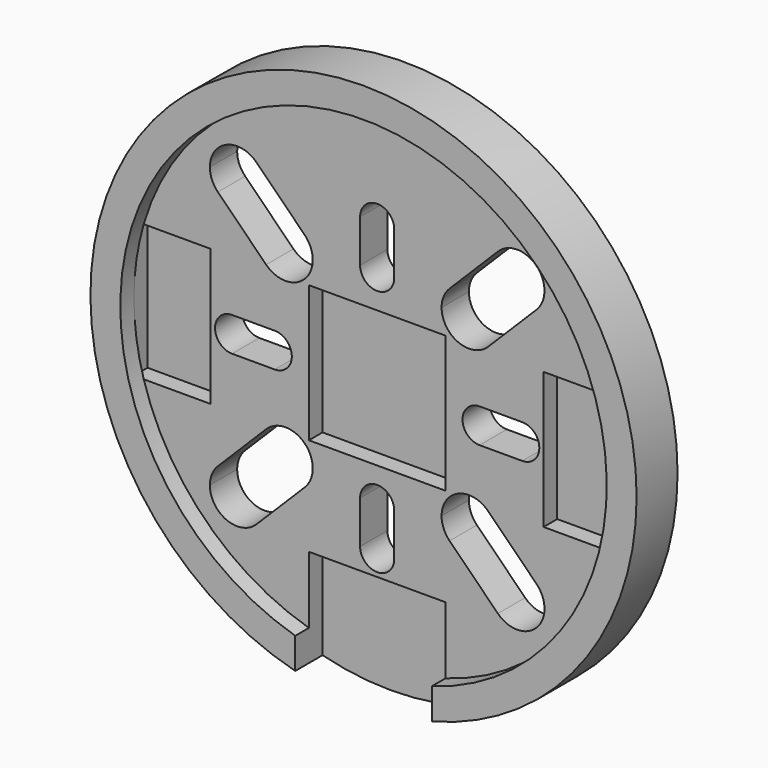
from build123d import *

# Parameters (mm, degrees)
F0_R     = 16
F1_DEPTH = 3
F3_DEPTH = 1
F4_W     = 8
F4_H     = 8
F4_W_2   = 4.5
F5_DEPTH = 1
F7_DEPTH = 3.001
F9_DEPTH = 3.001


with BuildPart() as f1:
    # F0 (on Front) → F1 (new body)
    with BuildSketch(Plane.XZ):
        Circle(F0_R)
    extrude(amount=F1_DEPTH)

    # F2 (on face) → F3 (cut)
    with BuildSketch(Plane.XZ.offset(3)):
        with BuildLine():
            Line((4, -16.6770793666), (4, -13.6770793666))
            ThreePointArc((4, -13.6770793666), (0, 14.25), (-4, -13.6770793666))
            Line((-4, -13.6770793666), (-4, -16.6770793666))
            Line((-4, -16.6770793666), (4, -16.6770793666))
        make_face()
    extrude(amount=-F3_DEPTH, mode=Mode.SUBTRACT)

    # F4 (on face) → F5 (cut)
    with BuildSketch(Plane.XZ.offset(2)):
        Rectangle(F4_W, F4_H)
        with Locations((-12, 0)):
            Rectangle(F4_W_2, F4_H)
        with Locations((12, 0)):
            Rectangle(F4_W_2, F4_H)
        with BuildLine():
            Line((4, -13.6770793666), (4, -9.75))
            Line((4, -9.75), (-4, -9.75))
            Line((-4, -9.75), (-4, -13.6770793666))
            Line((-4, -13.6770793666), (-4, -14.25))
            Line((-4, -14.25), (-4, -15.4919333848))
            ThreePointArc((-4, -15.4919333848), (0, -16), (4, -15.4919333848))
            Line((4, -15.4919333848), (4, -14.25))
            Line((4, -14.25), (4, -13.6770793666))
        make_face()
    extrude(amount=-F5_DEPTH, mode=Mode.SUBTRACT)

    # F6 (on face) → F7 (cut, through all)
    with BuildSketch(Plane(origin=(0, 0, 0), x_dir=(-1, 0, 0), z_dir=(0, 1, 0))):
        with BuildLine():
            Line((1, 6), (1, 8.5))
            ThreePointArc((1, 8.5), (0, 9.5), (-1, 8.5))
            Line((-1, 8.5), (-1, 6))
            ThreePointArc((-1, 6), (0, 5), (1, 6))
        make_face()
        with BuildLine():
            ThreePointArc((-8.5, 1), (-9.5, 0), (-8.5, -1))
            Line((-8.5, -1), (-6, -1))
            ThreePointArc((-6, -1), (-5, 0), (-6, 1))
            Line((-6, 1), (-8.5, 1))
        make_face()
        with BuildLine():
            ThreePointArc((-1, -8.5), (0, -9.5), (1, -8.5))
            Line((1, -8.5), (1, -6))
            ThreePointArc((1, -6), (0, -5), (-1, -6))
            Line((-1, -6), (-1, -8.5))
        make_face()
        with BuildLine():
            ThreePointArc((8.5, -1), (9.5, 0), (8.5, 1))
            Line((8.5, 1), (6, 1))
            ThreePointArc((6, 1), (5, 0), (6, -1))
            Line((6, -1), (8.5, -1))
        make_face()
    extrude(amount=-F7_DEPTH, mode=Mode.SUBTRACT)

    # F8 (on face) → F9 (cut, through all)
    with BuildSketch(Plane(origin=(0, 0, 0), x_dir=(-1, 0, 0), z_dir=(0, 1, 0))):
        with BuildLine():
            ThreePointArc((-7.0710678119, -9.3338095117), (-6.7242314097, -8.8147321535), (-6.6024386618, -8.2024386618))
            ThreePointArc((-6.6024386618, -8.2024386618), (-7.59014517, -6.7242314097), (-9.3338095117, -7.0710678119))
            ThreePointArc((-9.3338095117, -7.0710678119), (-9.3338095117, -9.3338095117), (-7.0710678119, -9.3338095117))
        make_face()
        with BuildLine():
            ThreePointArc((-9.3338095117, -7.0710678119), (-7.59014517, -6.7242314097), (-6.6024386618, -8.2024386618))
            ThreePointArc((-6.6024386618, -8.2024386618), (-6.7242314097, -8.8147321535), (-7.0710678119, -9.3338095117))
            Line((-7.0710678119, -9.3338095117), (-4.2426406871, -6.5053823869))
            ThreePointArc((-4.2426406871, -6.5053823869), (-6.5053823869, -6.5053823869), (-6.5053823869, -4.2426406871))
            Line((-6.5053823869, -4.2426406871), (-9.3338095117, -7.0710678119))
        make_face()
        with BuildLine():
            ThreePointArc((-3.774011537, -5.374011537), (-4.7617180452, -3.895804285), (-6.5053823869, -4.2426406871))
            ThreePointArc((-6.5053823869, -4.2426406871), (-6.5053823869, -6.5053823869), (-4.2426406871, -6.5053823869))
            ThreePointArc((-4.2426406871, -6.5053823869), (-3.895804285, -5.9863050288), (-3.774011537, -5.374011537))
        make_face()
        with BuildLine():
            Line((9.3338095117, -7.0710678119), (6.5053823869, -4.2426406871))
            ThreePointArc((6.5053823869, -4.2426406871), (6.852218789, -4.7617180452), (6.974011537, -5.374011537))
            ThreePointArc((6.974011537, -5.374011537), (5.9863050288, -6.852218789), (4.2426406871, -6.5053823869))
            Line((4.2426406871, -6.5053823869), (7.0710678119, -9.3338095117))
            ThreePointArc((7.0710678119, -9.3338095117), (7.0710678119, -7.0710678119), (9.3338095117, -7.0710678119))
        make_face()
        with BuildLine():
            ThreePointArc((6.974011537, -5.374011537), (6.852218789, -4.7617180452), (6.5053823869, -4.2426406871))
            ThreePointArc((6.5053823869, -4.2426406871), (4.2426406871, -4.2426406871), (4.2426406871, -6.5053823869))
            ThreePointArc((4.2426406871, -6.5053823869), (5.9863050288, -6.852218789), (6.974011537, -5.374011537))
        make_face()
        with BuildLine():
            ThreePointArc((9.8024386618, -8.2024386618), (9.6806459138, -7.59014517), (9.3338095117, -7.0710678119))
            ThreePointArc((9.3338095117, -7.0710678119), (7.0710678119, -7.0710678119), (7.0710678119, -9.3338095117))
            ThreePointArc((7.0710678119, -9.3338095117), (8.8147321535, -9.6806459138), (9.8024386618, -8.2024386618))
        make_face()
        with BuildLine():
            Line((7.0710678119, 9.3338095117), (4.2426406871, 6.5053823869))
            ThreePointArc((4.2426406871, 6.5053823869), (5.9863050288, 6.852218789), (6.974011537, 5.374011537))
            ThreePointArc((6.974011537, 5.374011537), (6.852218789, 4.7617180452), (6.5053823869, 4.2426406871))
            Line((6.5053823869, 4.2426406871), (9.3338095117, 7.0710678119))
            ThreePointArc((9.3338095117, 7.0710678119), (7.0710678119, 7.0710678119), (7.0710678119, 9.3338095117))
        make_face()
        with BuildLine():
            ThreePointArc((6.974011537, 5.374011537), (5.9863050288, 6.852218789), (4.2426406871, 6.5053823869))
            ThreePointArc((4.2426406871, 6.5053823869), (4.2426406871, 4.2426406871), (6.5053823869, 4.2426406871))
            ThreePointArc((6.5053823869, 4.2426406871), (6.852218789, 4.7617180452), (6.974011537, 5.374011537))
        make_face()
        with BuildLine():
            ThreePointArc((9.8024386618, 8.2024386618), (8.8147321535, 9.6806459138), (7.0710678119, 9.3338095117))
            ThreePointArc((7.0710678119, 9.3338095117), (7.0710678119, 7.0710678119), (9.3338095117, 7.0710678119))
            ThreePointArc((9.3338095117, 7.0710678119), (9.6806459138, 7.59014517), (9.8024386618, 8.2024386618))
        make_face()
        with BuildLine():
            Line((-9.3338095117, 7.0710678119), (-6.5053823869, 4.2426406871))
            ThreePointArc((-6.5053823869, 4.2426406871), (-6.5053823869, 6.5053823869), (-4.2426406871, 6.5053823869))
            Line((-4.2426406871, 6.5053823869), (-7.0710678119, 9.3338095117))
            ThreePointArc((-7.0710678119, 9.3338095117), (-6.7242314097, 8.8147321535), (-6.6024386618, 8.2024386618))
            ThreePointArc((-6.6024386618, 8.2024386618), (-7.59014517, 6.7242314097), (-9.3338095117, 7.0710678119))
        make_face()
        with BuildLine():
            ThreePointArc((-4.2426406871, 6.5053823869), (-6.5053823869, 6.5053823869), (-6.5053823869, 4.2426406871))
            ThreePointArc((-6.5053823869, 4.2426406871), (-4.7617180452, 3.895804285), (-3.774011537, 5.374011537))
            ThreePointArc((-3.774011537, 5.374011537), (-3.895804285, 5.9863050288), (-4.2426406871, 6.5053823869))
        make_face()
        with BuildLine():
            ThreePointArc((-7.0710678119, 9.3338095117), (-9.3338095117, 9.3338095117), (-9.3338095117, 7.0710678119))
            ThreePointArc((-9.3338095117, 7.0710678119), (-7.59014517, 6.7242314097), (-6.6024386618, 8.2024386618))
            ThreePointArc((-6.6024386618, 8.2024386618), (-6.7242314097, 8.8147321535), (-7.0710678119, 9.3338095117))
        make_face()
    extrude(amount=-F9_DEPTH, mode=Mode.SUBTRACT)


solid = f1.part
